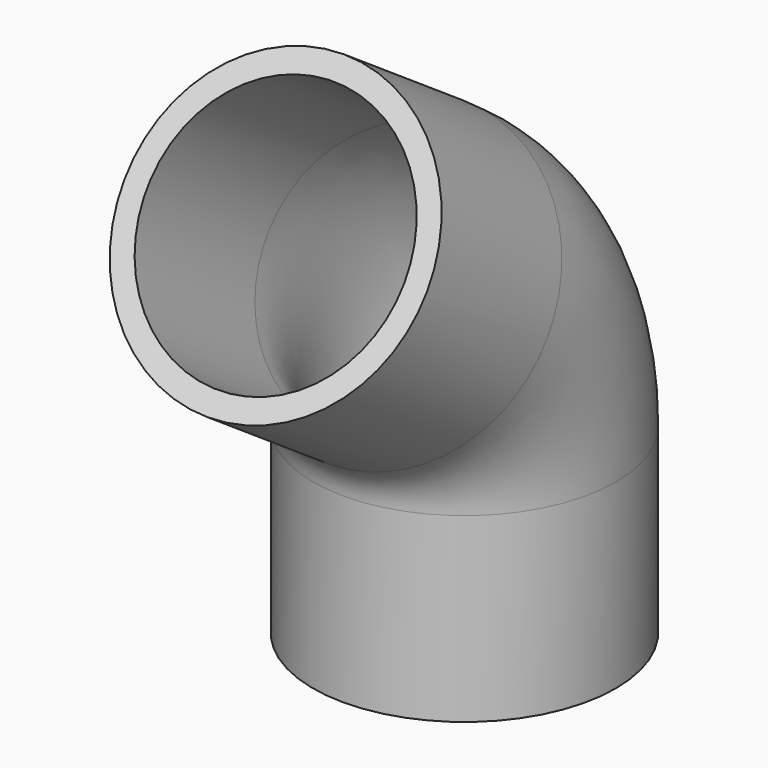
from build123d import *

# Parameters (mm, degrees)
F0_R   = 15.875
F0_R_2 = 13.49375


with BuildPart() as f2:
    # F2: sweep along a path in F1
    with BuildLine(Plane.YZ) as f2_path:
        Line((0, 0), (0, 19.05))
        ThreePointArc((0, 19.05), (-2.38381, 28.639399), (-8.980293, 35.996405))
        Line((-8.980293, 35.996405), (-24.743706, 46.693007))
    # F0 (on Top) → F2 (sweep)
    with BuildSketch(Plane.XY):
        with Locations((15.875, 0)):
            Circle(F0_R)
        with Locations((15.875, 0)):
            Circle(F0_R_2, mode=Mode.SUBTRACT)
    sweep(path=f2_path.line)


solid = f2.part
